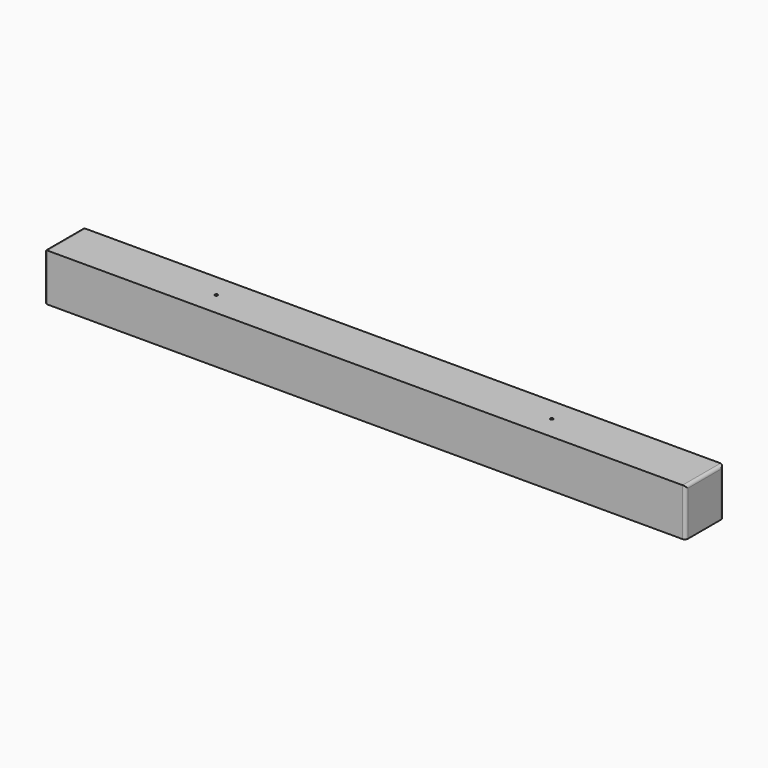
from build123d import *

# Parameters (mm, degrees)
F0_R     = 6.35
F1_DEPTH = 203.2
F2_R     = 12.7


with BuildPart() as f1:
    # F0 (on Top) → F1 (new body)
    with BuildSketch(Plane.XY):
        with BuildLine():
            ThreePointArc((38.1, -101.6), (31.75, -95.25), (25.4, -101.6))
            ThreePointArc((25.4, -101.6), (31.75, -107.95), (38.1, -101.6))
        make_face()
        Polygon((685.8, 0), (0, 0), (-685.8, 0), (-685.8, -101.6), (-685.8, -203.2), (685.8, -203.2), align=None)
        with BuildLine():
            ThreePointArc((38.1, -101.6), (31.75, -107.95), (25.4, -101.6))
            ThreePointArc((25.4, -101.6), (31.75, -95.25), (38.1, -101.6))
        make_face(mode=Mode.SUBTRACT)
        with Locations((-1403.35, -101.6)):
            Circle(F0_R)
        Polygon((-685.8, -101.6), (-685.8, 0), (-2057.4, 0), (-2057.4, -203.2), (-685.8, -203.2), align=None)
        with Locations((-1403.35, -101.6)):
            Circle(F0_R, mode=Mode.SUBTRACT)
    extrude(amount=F1_DEPTH)

    # F2
    f2_edges = [f1.edges().sort_by_distance(p)[0] for p in [
        (685.8, -101.6, 203.2),
        (685.8, -203.2, 101.6),
        (685.8, 0, 101.6),
        (-2057.4, -203.2, 101.6),
        (-2057.4, -101.6, 203.2),
        (-2057.4, 0, 101.6),
    ]]
    fillet(f2_edges, radius=F2_R)


solid = f1.part
